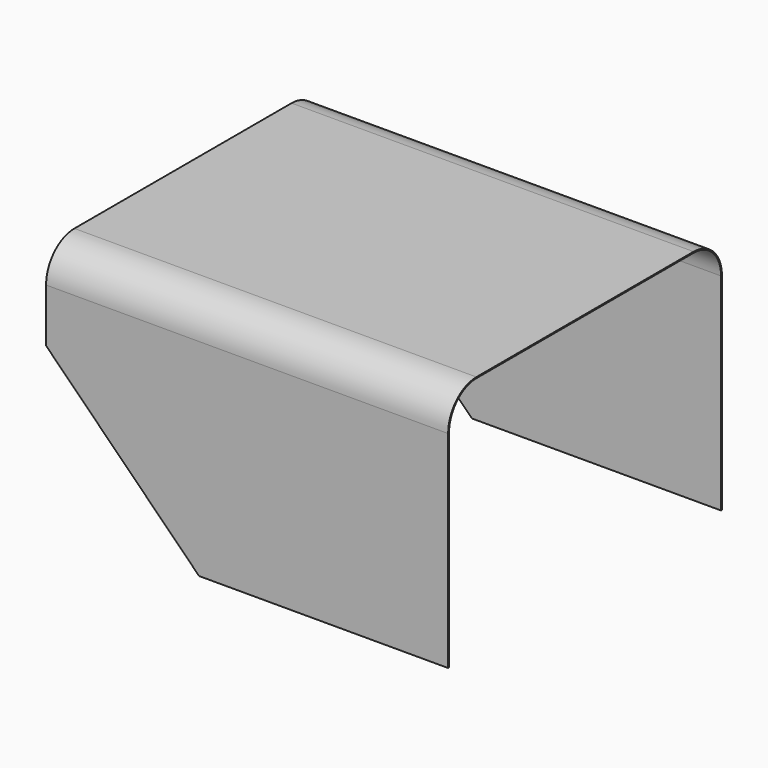
from build123d import *

# Parameters (mm, degrees)
F1_DEPTH = 1191
F3_DEPTH = 1013.755


with BuildPart() as f1:
    # F0 (on Right) → F1 (new body)
    with BuildSketch(Plane.YZ):
        with BuildLine():
            Line((-506.876999, -713.17), (-503.701999, -713.17))
            Line((-503.701999, -713.17), (-503.701999, -101.6))
            ThreePointArc((-503.701999, -101.6), (-473.944047, -29.757949), (-402.101994, 0))
            Line((-402.101994, 0), (402.101994, 0))
            ThreePointArc((402.101994, 0), (473.944909, -29.75881), (503.702001, -101.602437))
            Line((503.702001, -101.602437), (503.702001, -713.172437))
            Line((503.702001, -713.172437), (506.877001, -713.172437))
            Line((506.877001, -713.172437), (506.877001, -101.602437))
            ThreePointArc((506.877001, -101.602437), (476.189973, -27.513746), (402.101994, 3.175))
            Line((402.101994, 3.175), (-402.102006, 3.175))
            ThreePointArc((-402.102006, 3.175), (-476.189115, -27.512889), (-506.876999, -101.6))
            Line((-506.876999, -101.6), (-506.876999, -713.17))
        make_face()
    extrude(amount=F1_DEPTH)

    # F2 (on face) → F3 (cut, through all)
    with BuildSketch(Plane.XZ.offset(506.876999)):
        Polygon((553.679861, -813.591861), (0, -259.912), (-226.735473, -259.912), (-226.735473, -813.591861), align=None)
    extrude(amount=-F3_DEPTH, mode=Mode.SUBTRACT)


solid = f1.part
